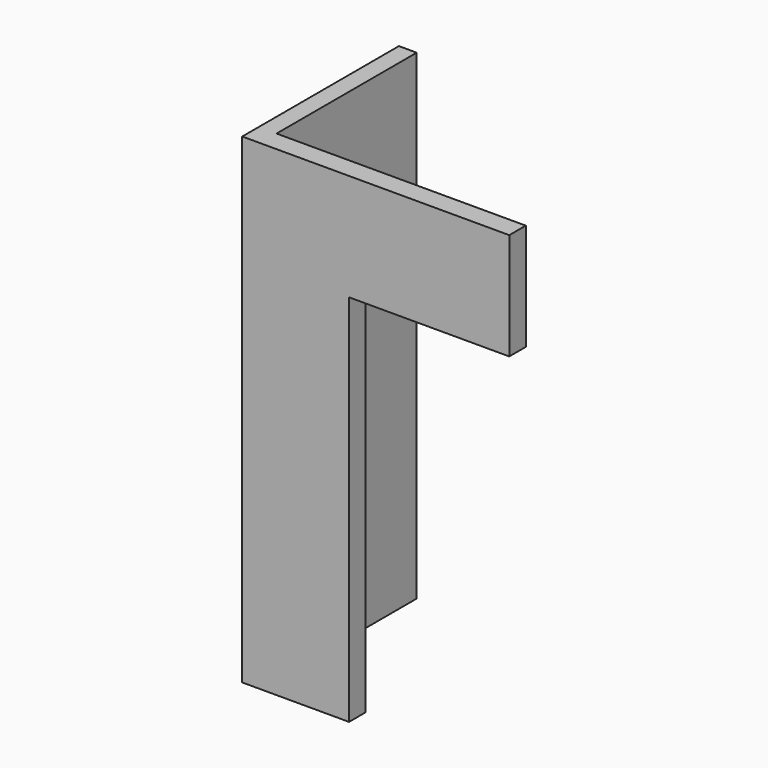
from build123d import *

# Parameters (mm, degrees)
F0_W     = 101.6
F0_H     = 999.965006
F0_H_2   = 117.634994
F0_W_2   = 1422.4
F1_DEPTH = 2743.2
F2_W     = 914.4
F2_H     = 2133.6
F3_DEPTH = 1117.601


with BuildPart() as f1:
    # F0 (on Top) → F1 (new body)
    with BuildSketch(Plane.XY):
        with Locations((2115.226834, -2861.363027)):
            Rectangle(F0_W, F0_H)
        with Locations((2115.226834, -3420.163027)):
            Rectangle(F0_W, F0_H_2)
        with Locations((2877.226834, -3420.163027)):
            Rectangle(F0_W_2, F0_H_2)
    extrude(amount=F1_DEPTH)

    # F2 (on face) → F3 (cut, through all)
    with BuildSketch(Plane.XZ.offset(3478.980524)):
        with Locations((3131.226834, 1066.8)):
            Rectangle(F2_W, F2_H)
    extrude(amount=-F3_DEPTH, mode=Mode.SUBTRACT)


solid = f1.part
